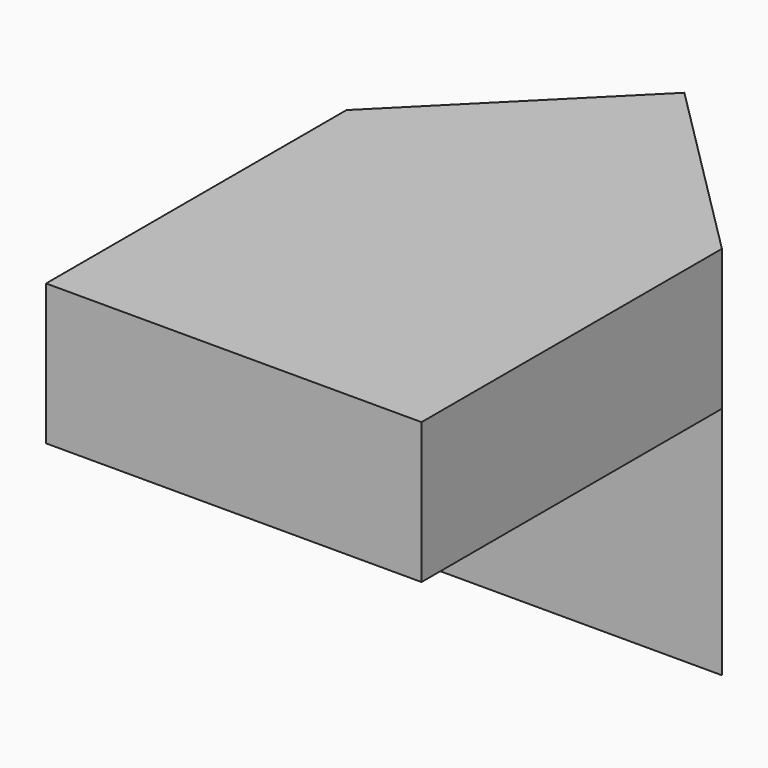
from build123d import *

# Parameters (mm, degrees)
F0_W     = 40
F0_H     = 40
F1_DEPTH = 40
F2_DEPTH = 25


with BuildPart() as f1:
    # F0 (on Top) → F1 (new body)
    with BuildSketch(Plane.XY):
        Polygon((20, 20), (0, 0), (40, 0), align=None)
        with Locations((20, -20)):
            Rectangle(F0_W, F0_H)
    extrude(amount=F1_DEPTH)

    # F0 (on Top) → F2 (cut)
    with BuildSketch(Plane.XY):
        with Locations((20, -20)):
            Rectangle(F0_W, F0_H)
    extrude(amount=F2_DEPTH, mode=Mode.SUBTRACT)


solid = f1.part
